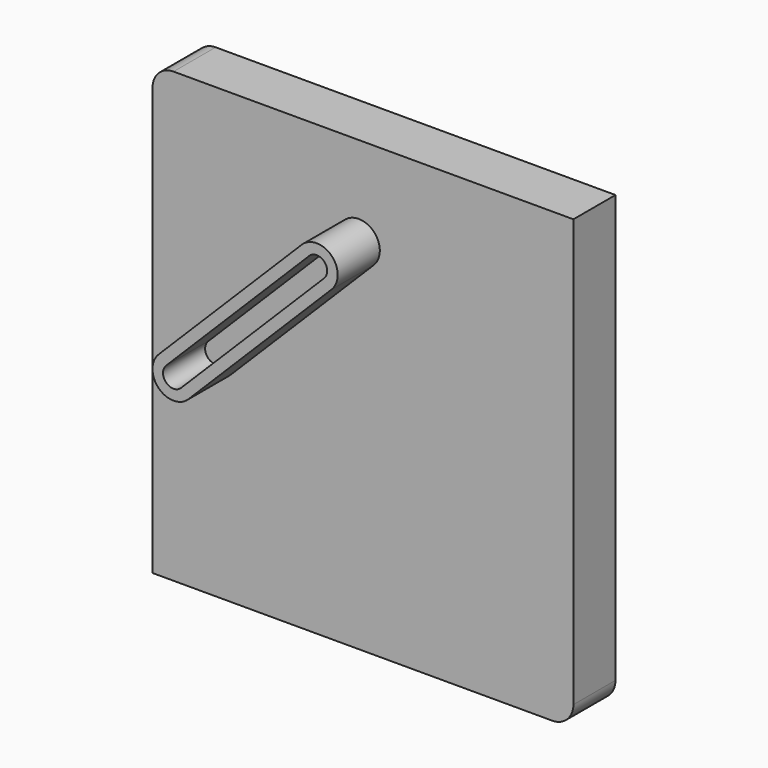
from build123d import *

# Parameters (mm, degrees)
F1_DEPTH = 25
F3_DEPTH = 25


with BuildPart() as f1:
    # F0 (on Front) → F1 (new body)
    with BuildSketch(Plane.XZ):
        with BuildLine():
            Line((100, -96.5), (100, 106.5))
            Line((100, 106.5), (-90, 106.5))
            ThreePointArc((-90, 106.5), (-97.071068, 103.571068), (-100, 96.5))
            Line((-100, 96.5), (-100, -106.5))
            Line((-100, -106.5), (90, -106.5))
            ThreePointArc((90, -106.5), (97.071068, -103.571068), (100, -96.5))
        make_face()
    extrude(amount=F1_DEPTH)

    # F2 (on face) → F3 (join)
    with BuildSketch(Plane.XZ.offset(25)):
        with BuildLine():
            Line((-62.928932, -11.571068), (5.071068, 56.428932))
            ThreePointArc((5.071068, 56.428932), (5.071068, 70.571068), (-9.071068, 70.571068))
            Line((-9.071068, 70.571068), (-77.071068, 2.571068))
            ThreePointArc((-77.071068, 2.571068), (-77.071068, -11.571068), (-62.928932, -11.571068))
        make_face()
        with BuildLine():
            ThreePointArc((-66.464466, -8.035534), (-73.535534, -8.035534), (-73.535534, -0.964466))
            Line((-73.535534, -0.964466), (-5.535534, 67.035534))
            ThreePointArc((-5.535534, 67.035534), (1.535534, 67.035534), (1.535534, 59.964466))
            Line((1.535534, 59.964466), (-66.464466, -8.035534))
        make_face(mode=Mode.SUBTRACT)
    extrude(amount=F3_DEPTH)


solid = f1.part
